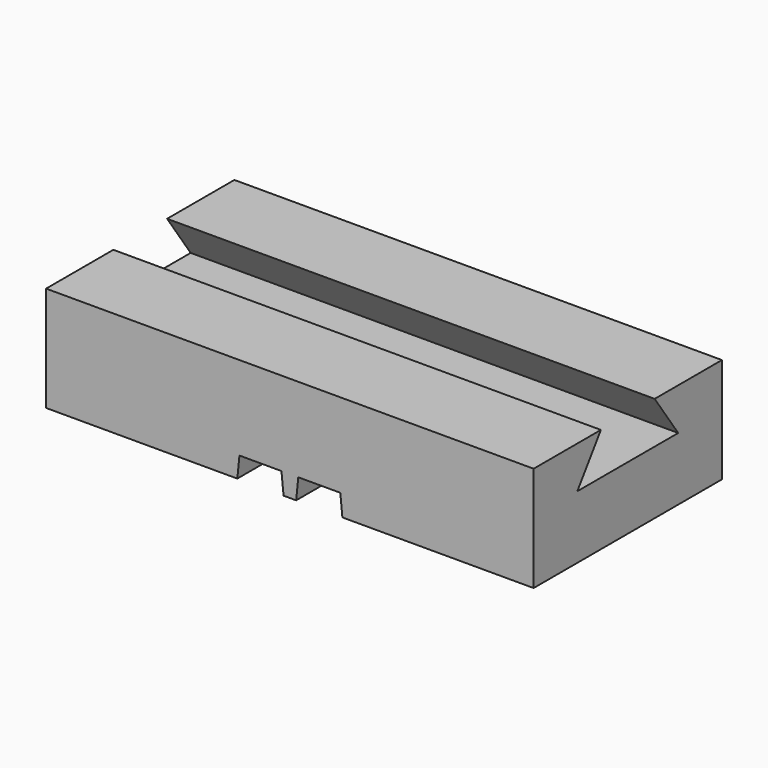
from build123d import *

# Parameters (mm, degrees)
F1_DEPTH = 56
F3_DEPTH = 116
F5_D     = 12
F5_DEPTH = 5
F5_TIP   = 3.6051637142


with BuildPart() as f1:
    # F0 (on Front) → F1 (new body)
    with BuildSketch(Plane.XZ):
        Polygon((-1.5, 0), (0, 0), (1.5, 0), (2, 5), (12, 5), (12.5, 0), (58, 0), (58, 25), (-58, 25), (-58, 0), (-12.5, 0), (-12, 5), (-2, 5), align=None)
    extrude(amount=F1_DEPTH)

    # F2 (on face) → F3 (cut, through all)
    with BuildSketch(Plane(origin=(-58, 0, 0), x_dir=(0, -1, 0), z_dir=(-1, 0, 0))):
        Polygon((28, 25), (20.0020753821, 25), (13, 15), (28, 15), align=None)
        Polygon((35.9979246179, 25), (28, 25), (28, 15), (43, 15), align=None)
    extrude(amount=-F3_DEPTH, mode=Mode.SUBTRACT)

    # F5
    with Locations(Plane.XY.offset(15)):
        with Locations((-1.5, -28)):
            Hole(F5_D / 2, depth=F5_DEPTH)
            with Locations((0, 0, -(F5_DEPTH + F5_TIP / 2))):  # 118° drill point
                Cone(0, F5_D / 2, F5_TIP, mode=Mode.SUBTRACT)


solid = f1.part
